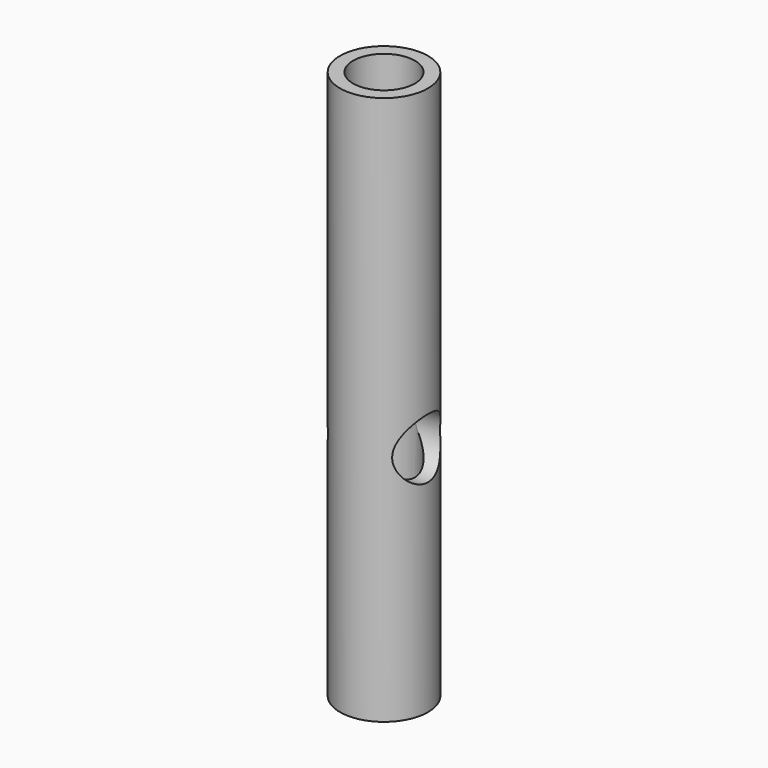
from build123d import *

# Parameters (mm, degrees)
F0_R          = 20.3549318645
F1_DEPTH      = 254
F2_R          = 14.2952527041
F3_DEPTH      = 254.001
F4_R          = 13.8929709209
F5_DEPTH      = 20.3559318645
F5_DEPTH_BACK = 25.4


with BuildPart() as f1:
    # F0 (on Top) → F1 (new body)
    with BuildSketch(Plane.XY):
        Circle(F0_R)
    extrude(amount=F1_DEPTH)

    # F2 (on face) → F3 (cut, through all)
    with BuildSketch(Plane.XY.offset(254)):
        Circle(F2_R)
    extrude(amount=-F3_DEPTH, mode=Mode.SUBTRACT)

    # F4 (on Right) → F5 (cut, two sides)
    with BuildSketch(Plane.YZ) as f5_sk:
        with Locations((0, 107.5033918023)):
            Circle(F4_R)
    extrude(amount=-F5_DEPTH, mode=Mode.SUBTRACT)
    extrude(f5_sk.sketch, amount=F5_DEPTH_BACK, mode=Mode.SUBTRACT)


solid = f1.part
